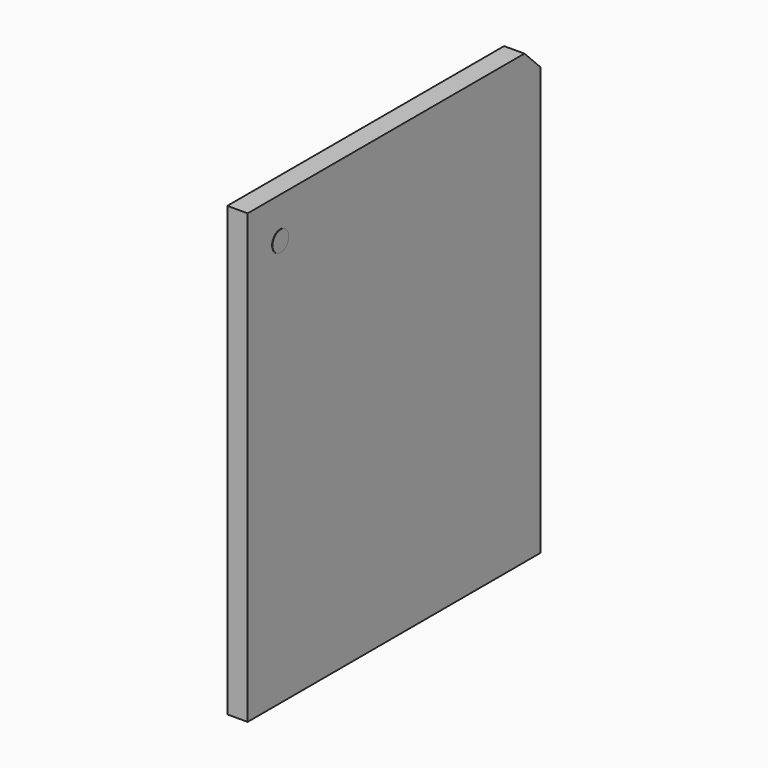
from build123d import *

# Parameters (mm, degrees)
PAD_DEPTH    = 0.5
SKETCH001_R  = 0.25
PAD001_DEPTH = 0.01


with BuildPart() as part:
    # Sketch (on YZ_Plane of Origin) → Pad (new body)
    with BuildSketch(Plane.YZ):
        Polygon((-4.5, -5.5), (4.5, -5.5), (4.5, 5), (4, 5.5), (-4.5, 5.5), align=None)
    extrude(amount=PAD_DEPTH)

    # Sketch001 (on Face7 of Pad) → Pad001 (join)
    with BuildSketch(Plane.YZ.offset(0.5)):
        with Locations((-3.5, 4.5)):
            Circle(SKETCH001_R)
    extrude(amount=PAD001_DEPTH)


solid = part.part
